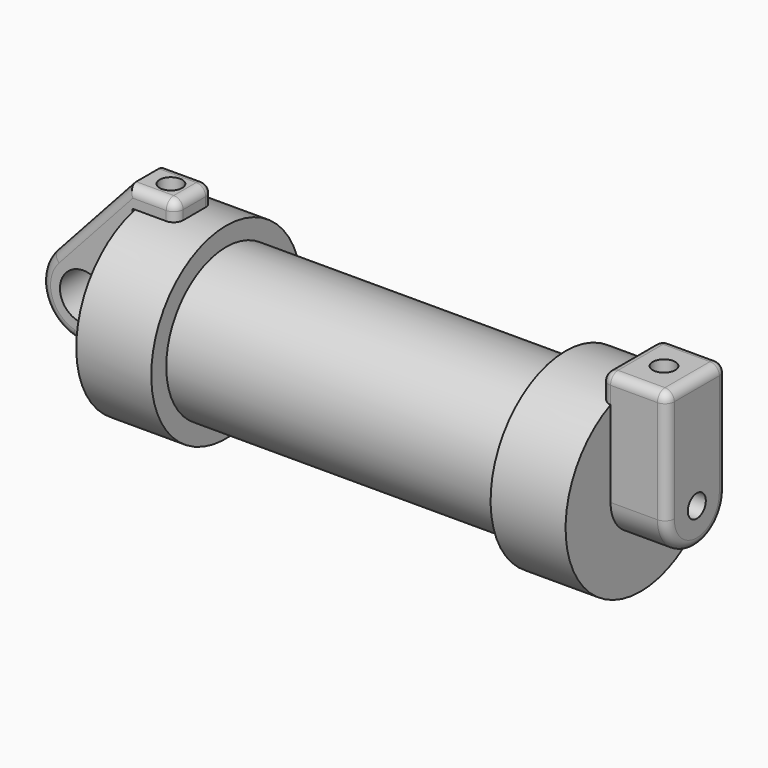
from build123d import *

# Parameters (mm, degrees)
F0_W      = 5.842
F0_H      = 12.7
F0_R      = 3.175
F2_DEPTH  = 3.175
F3_R      = 1.524
F4_DEPTH  = 7.62
F5_DEPTH  = 1.27
F6_DEPTH  = 56.134
F8_R      = 1.524
F9_DEPTH  = 17.78
F10_R     = 1.27
F10_2_R   = 1.27
F7_R      = 1.524
F11_DEPTH = 10.414


with BuildPart() as f1:
    # F0 (on Front) → F1 (revolve)
    with BuildSketch(Plane.XZ):
        Polygon((5.842, 12.7), (5.842, 0), (66.294, 0), (66.294, 12.7), (56.134, 12.7), (56.134, 10.16), (10.16, 10.16), (10.16, 12.7), align=None)
        with Locations((2.921, 6.35)):
            Rectangle(F0_W, F0_H)
    revolve(axis=Axis((33.147, 0, 0), (-1, 0, 0)))

    # F3 (on face) → F4 (join)
    with BuildSketch(Plane.YZ.offset(66.294)):
        with BuildLine():
            ThreePointArc((-5.08, 11.6397422652), (0, 12.7), (5.08, 11.6397422652))
            Line((5.08, 11.6397422652), (5.08, 15.24))
            Line((5.08, 15.24), (-5.08, 15.24))
            Line((-5.08, 15.24), (-5.08, 11.6397422652))
        make_face()
        with BuildLine():
            ThreePointArc((-5.08, 0), (0, 5.08), (5.08, 0))
            Line((5.08, 0), (5.08, 11.6397422652))
            ThreePointArc((5.08, 11.6397422652), (0, 12.7), (-5.08, 11.6397422652))
            Line((-5.08, 11.6397422652), (-5.08, 0))
        make_face()
        with BuildLine():
            ThreePointArc((-5.08, 0), (0, -5.08), (5.08, 0))
            ThreePointArc((5.08, 0), (0, 5.08), (-5.08, 0))
        make_face()
        Circle(F3_R, mode=Mode.SUBTRACT)
    extrude(amount=F4_DEPTH)

    # F5 (add): a face of the model
    f5_faces = [f1.faces().sort_by_distance(p)[0] for p in [
        (66.294, 0, 13.7792682875),
    ]]
    extrude(f5_faces, amount=F5_DEPTH)

    # F6 (cut, through all): a face of the model
    f6_faces = [f1.faces().sort_by_distance(p)[0] for p in [
        (66.294, 0, 0),
    ]]
    extrude(f6_faces, amount=-F6_DEPTH, mode=Mode.SUBTRACT)

    # F10
    f10_edges = [f1.edges().sort_by_distance(p)[0] for p in [
        (73.914, -5.08, 7.62),
        (69.469, -5.08, 15.24),
        (69.469, 5.08, 15.24),
        (73.914, 0, 15.24),
        (65.024, 0, 15.24),
        (65.024, -5.08, 13.439871),
        (65.024, 5.08, 13.439871),
    ]]
    fillet(f10_edges, radius=F10_R)

    # F7 (on face) → F11 (cut)
    with BuildSketch(Plane.XY.offset(15.24)):
        with Locations((69.469, 0)):
            Circle(F7_R)
    extrude(amount=-F11_DEPTH, mode=Mode.SUBTRACT)


with BuildPart() as f2:
    # F0 (on Front) → F2 (new body, symmetric)
    with BuildSketch(Plane.XZ):
        with BuildLine():
            Line((-0.9398, 0), (0, 0))
            Line((0, 0), (0, 12.7))
            Line((0, 12.7), (5.842, 12.7))
            Line((5.842, 12.7), (5.842, 15.24))
            Line((5.842, 15.24), (-0.508, 15.24))
            Line((-0.508, 15.24), (-10.8806298187, 3.8475430269))
            ThreePointArc((-10.8806298187, 3.8475430269), (-4.5919612295, 5.3297205562), (-0.9398, 0))
        make_face()
        with BuildLine():
            Line((5.842, 0), (0, 0))
            Line((0, 0), (-0.9398, 0))
            ThreePointArc((-0.9398, 0), (-3.1957909266, -4.5493385486), (-8.1826630726, -5.5069827884))
            Line((-8.1826630726, -5.5069827884), (5.842, -9.398))
            Line((5.842, -9.398), (5.842, 0))
        make_face()
        with BuildLine():
            ThreePointArc((-8.1826630726, -5.5069827884), (-3.1957909266, -4.5493385486), (-0.9398, 0))
            ThreePointArc((-0.9398, 0), (-4.5919612295, 5.3297205562), (-10.8806298187, 3.8475430269))
            ThreePointArc((-10.8806298187, 3.8475430269), (-12.1459778134, -1.5837270034), (-8.1826630726, -5.5069827884))
        make_face()
        with Locations((-6.6548, 0)):
            Circle(F0_R, mode=Mode.SUBTRACT)
    extrude(amount=F2_DEPTH, both=True)

    # F8 (on face) → F9 (cut)
    with BuildSketch(Plane.XY.offset(15.24)):
        with Locations((2.667, 0)):
            Circle(F8_R)
    extrude(amount=-F9_DEPTH, mode=Mode.SUBTRACT)

    # F10#2
    f10_2_edges = [f2.edges().sort_by_distance(p)[0] for p in [
        (-5.694315, 3.175, 9.543772),
        (-5.694315, -3.175, 9.543772),
        (2.667, 3.175, 15.24),
        (2.667, -3.175, 15.24),
        (5.842, 0, 15.24),
        (5.842, 3.175, 13.97),
        (5.842, -3.175, 13.97),
    ]]
    fillet(f10_2_edges, radius=F10_2_R)


solid = Compound([f1.part, f2.part])
